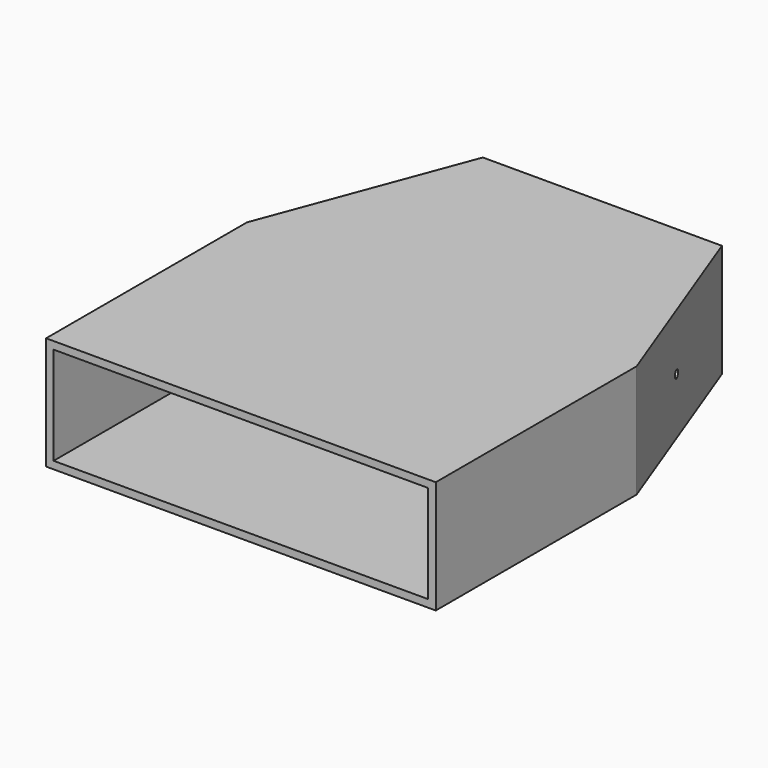
from build123d import *

# Parameters (mm, degrees)
F0_W     = 155.25
F0_H     = 180
F1_DEPTH = 45
F2_SIZE2 = 80
F2_SIZE  = 30
F3_SIZE2 = 30
F3_SIZE  = 80
F4_T     = -3
F6_D     = 3.175


with BuildPart() as f1:
    # F0 (on Top) → F1 (new body)
    with BuildSketch(Plane.XY):
        with Locations((-19.9909230247, -15.9310551924)):
            Rectangle(F0_W, F0_H)
    extrude(amount=-F1_DEPTH)

    # F2
    f2_edges = [f1.edges().sort_by_distance(p)[0] for p in [
        (-97.615923, 74.068945, -22.5),
    ]]
    f2_side = f1.faces().sort_by_distance((-19.990923, 74.068945, -22.5))[0]
    chamfer(f2_edges, length=F2_SIZE, length2=F2_SIZE2, reference=f2_side)

    # F3
    f3_edges = [f1.edges().sort_by_distance(p)[0] for p in [
        (57.634077, 74.068945, -22.5),
    ]]
    f3_side = f1.faces().sort_by_distance((57.634077, -15.931055, -22.5))[0]
    chamfer(f3_edges, length=F3_SIZE, length2=F3_SIZE2, reference=f3_side)

    # F4
    f4_openings = [f1.faces().sort_by_distance(p)[0] for p in [
        (-19.990923, -105.931055, -22.5),
    ]]
    offset(amount=F4_T, openings=f4_openings)

    # F6 (through all)
    with Locations(Plane(origin=(48.5785698877, 18.2169637079, 0), x_dir=(-0.3511234416, 0.9363291776, 0), z_dir=(0.9363291776, 0.3511234416, 0))):
        with Locations((14.2099045093, -22.5)):
            Hole(F6_D / 2)


solid = f1.part
